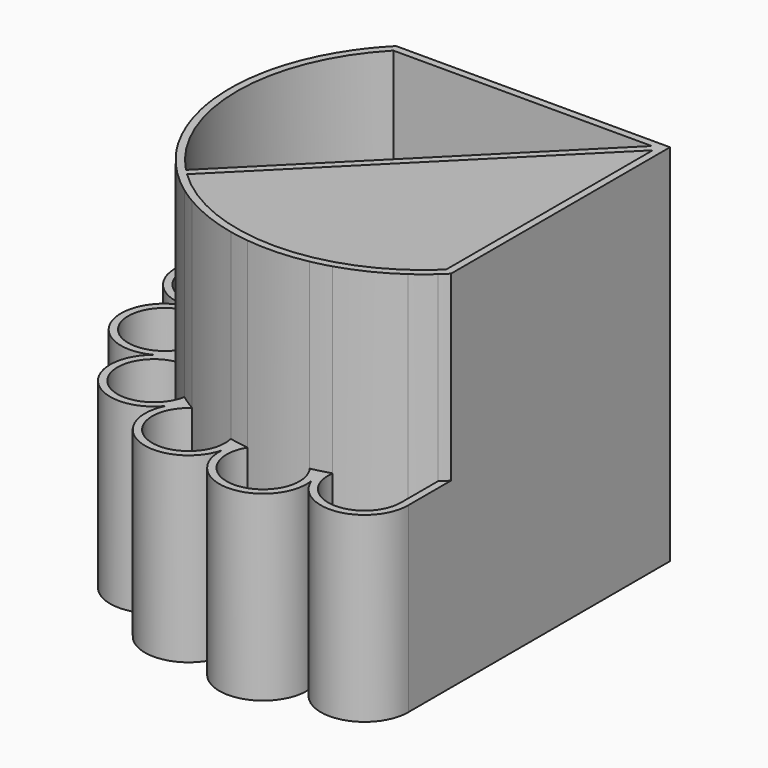
from build123d import *

# Parameters (mm, degrees)
F1_DEPTH = 100
F2_DEPTH = 50
F3_DEPTH = 2


with BuildPart() as f1:
    # F0 (on Top) → F1 (new body)
    with BuildSketch(Plane.XY):
        with BuildLine():
            Line((53.8232761587, 53.8232761587), (-21.3128918473, 53.8232761587))
            ThreePointArc((-21.3128918473, 53.8232761587), (-22.275260259, 52.8355982228), (-23.2116708013, 51.8232761587))
            ThreePointArc((-23.2116708013, 51.8232761587), (-25.3075965949, 49.3498512806), (-27.2487584756, 46.7531945623))
            ThreePointArc((-27.2487584756, 46.7531945623), (-31.4587379196, 39.6240335494), (-34.51000041, 31.9273679805))
            ThreePointArc((-34.51000041, 31.9273679805), (-35.2404615897, 29.3288112664), (-35.838001078, 26.6965086449))
            ThreePointArc((-35.838001078, 26.6965086449), (-36.82764793, 18.4764439995), (-36.5281956308, 10.2024369904))
            ThreePointArc((-36.5281956308, 10.2024369904), (-36.1526574521, 7.5294159266), (-35.6418430025, 4.8789180245))
            ThreePointArc((-35.6418430025, 4.8789180245), (-33.2442555313, -3.0457547122), (-29.644590404, -10.5017103611))
            ThreePointArc((-29.644590404, -10.5017103611), (-28.2263865418, -12.7983967429), (-26.6933658701, -15.0200893749))
            ThreePointArc((-26.6933658701, -15.0200893749), (-21.3128918473, -21.3128918473), (-15.0200893749, -26.6933658701))
            ThreePointArc((-15.0200893749, -26.6933658701), (-12.7983967429, -28.2263865418), (-10.5017103611, -29.644590404))
            ThreePointArc((-10.5017103611, -29.644590404), (-3.0457547122, -33.2442555313), (4.8789180245, -35.6418430025))
            ThreePointArc((4.8789180245, -35.6418430025), (7.5294159266, -36.1526574521), (10.2024369904, -36.5281956308))
            ThreePointArc((10.2024369904, -36.5281956308), (18.4764439995, -36.82764793), (26.6965086449, -35.838001078))
            ThreePointArc((26.6965086449, -35.838001078), (29.3288112664, -35.2404615897), (31.9273679804, -34.51000041))
            ThreePointArc((31.9273679804, -34.51000041), (39.6240335494, -31.4587379196), (46.7531945623, -27.2487584756))
            ThreePointArc((46.7531945623, -27.2487584756), (49.3498512806, -25.3075965949), (51.8232761587, -23.2116708013))
            ThreePointArc((51.8232761587, -23.2116708013), (52.8355982228, -22.275260259), (53.8232761587, -21.3128918473))
            Line((53.8232761587, -21.3128918473), (53.8232761587, 53.8232761587))
        make_face()
        with BuildLine():
            Line((50.4090625964, 51.8232761587), (51.8232761587, 51.8232761587))
            Line((51.8232761587, 51.8232761587), (51.8232761587, 50.4090625964))
            Line((51.8232761587, 50.4090625964), (51.8232761587, -20.4751236071))
            ThreePointArc((51.8232761587, -20.4751236071), (16.3442953184, -34.8740241135), (-19.1846559534, -20.5988695157))
            ThreePointArc((-19.1846559534, -20.5988695157), (-19.8986782849, -19.8986782849), (-20.5988695157, -19.1846559534))
            ThreePointArc((-20.5988695157, -19.1846559534), (-34.8740241135, 16.3442953184), (-20.4751236071, 51.8232761587))
            Line((-20.4751236071, 51.8232761587), (50.4090625964, 51.8232761587))
        make_face(mode=Mode.SUBTRACT)
        with BuildLine():
            Line((51.8232761587, 50.4090625964), (51.8232761587, 51.8232761587))
            Line((51.8232761587, 51.8232761587), (50.4090625964, 51.8232761587))
            Line((50.4090625964, 51.8232761587), (-20.5988695157, -19.1846559534))
            ThreePointArc((-20.5988695157, -19.1846559534), (-19.8986782849, -19.8986782849), (-19.1846559534, -20.5988695157))
            Line((-19.1846559534, -20.5988695157), (51.8232761587, 50.4090625964))
        make_face()
    extrude(amount=F1_DEPTH)

    # F0 (on Top) → F2 (join)
    with BuildSketch(Plane.XY):
        with BuildLine():
            ThreePointArc((-23.2116708013, 51.8232761587), (-22.275260259, 52.8355982228), (-21.3128918473, 53.8232761587))
            Line((-21.3128918473, 53.8232761587), (-35.94909781, 53.8232761587))
            ThreePointArc((-35.94909781, 53.8232761587), (-47.7636920228, 43.9245528153), (-40.0867196477, 30.55917009))
            ThreePointArc((-40.0867196477, 30.55917009), (-53.8127839078, 19.1871871426), (-41.0847622997, 6.7082327726))
            ThreePointArc((-41.0847622997, 6.7082327726), (-49.0827986166, -9.2215585412), (-32.4125497133, -15.53263117))
            ThreePointArc((-32.4125497133, -15.53263117), (-33.3337071275, -33.3337071275), (-15.53263117, -32.4125497133))
            ThreePointArc((-15.53263117, -32.4125497133), (-9.2215585412, -49.0827986166), (6.7082327726, -41.0847622997))
            ThreePointArc((6.7082327726, -41.0847622997), (19.1871871426, -53.8127839078), (30.55917009, -40.0867196477))
            ThreePointArc((30.55917009, -40.0867196477), (43.9245528153, -47.7636920228), (53.8232761587, -35.94909781))
            Line((53.8232761587, -35.94909781), (53.8232761587, -21.3128918473))
            ThreePointArc((53.8232761587, -21.3128918473), (52.8355982228, -22.275260259), (51.8232761587, -23.2116708013))
            Line((51.8232761587, -23.2116708013), (51.8232761587, -35.94909781))
            ThreePointArc((51.8232761587, -35.94909781), (41.1018476394, -45.9230409065), (31.9273679804, -34.51000041))
            ThreePointArc((31.9273679804, -34.51000041), (29.3288112664, -35.2404615897), (26.6965086449, -35.838001078))
            ThreePointArc((26.6965086449, -35.838001078), (19.1035703023, -51.8145326163), (10.2024369904, -36.5281956308))
            ThreePointArc((10.2024369904, -36.5281956308), (7.5294159266, -36.1526574521), (4.8789180245, -35.6418430025))
            ThreePointArc((4.8789180245, -35.6418430025), (-8.4949933848, -47.2194406066), (-10.5017103611, -29.644590404))
            ThreePointArc((-10.5017103611, -29.644590404), (-12.7983967429, -28.2263865418), (-15.0200893749, -26.6933658701))
            ThreePointArc((-15.0200893749, -26.6933658701), (-31.9194935651, -31.9194935651), (-26.6933658701, -15.0200893749))
            ThreePointArc((-26.6933658701, -15.0200893749), (-28.2263865418, -12.7983967429), (-29.644590404, -10.5017103611))
            ThreePointArc((-29.644590404, -10.5017103611), (-47.2194406066, -8.4949933848), (-35.6418430025, 4.8789180245))
            ThreePointArc((-35.6418430025, 4.8789180245), (-36.1526574521, 7.5294159266), (-36.5281956308, 10.2024369904))
            ThreePointArc((-36.5281956308, 10.2024369904), (-51.8145326163, 19.1035703023), (-35.838001078, 26.6965086449))
            ThreePointArc((-35.838001078, 26.6965086449), (-35.2404615897, 29.3288112664), (-34.51000041, 31.9273679805))
            ThreePointArc((-34.51000041, 31.9273679805), (-45.9230409065, 41.1018476394), (-35.94909781, 51.8232761587))
            Line((-35.94909781, 51.8232761587), (-23.2116708013, 51.8232761587))
        make_face()
        with BuildLine():
            ThreePointArc((-23.2116708013, 51.8232761587), (-22.275260259, 52.8355982228), (-21.3128918473, 53.8232761587))
            Line((-21.3128918473, 53.8232761587), (-35.94909781, 53.8232761587))
            ThreePointArc((-35.94909781, 53.8232761587), (-47.7636920228, 43.9245528153), (-40.0867196477, 30.55917009))
            ThreePointArc((-40.0867196477, 30.55917009), (-53.8127839078, 19.1871871426), (-41.0847622997, 6.7082327726))
            ThreePointArc((-41.0847622997, 6.7082327726), (-49.0827986166, -9.2215585412), (-32.4125497133, -15.53263117))
            ThreePointArc((-32.4125497133, -15.53263117), (-33.3337071275, -33.3337071275), (-15.53263117, -32.4125497133))
            ThreePointArc((-15.53263117, -32.4125497133), (-9.2215585412, -49.0827986166), (6.7082327726, -41.0847622997))
            ThreePointArc((6.7082327726, -41.0847622997), (19.1871871426, -53.8127839078), (30.55917009, -40.0867196477))
            ThreePointArc((30.55917009, -40.0867196477), (43.9245528153, -47.7636920228), (53.8232761587, -35.94909781))
            Line((53.8232761587, -35.94909781), (53.8232761587, -21.3128918473))
            ThreePointArc((53.8232761587, -21.3128918473), (52.8355982228, -22.275260259), (51.8232761587, -23.2116708013))
            Line((51.8232761587, -23.2116708013), (51.8232761587, -35.94909781))
            ThreePointArc((51.8232761587, -35.94909781), (41.1018476394, -45.9230409065), (31.9273679804, -34.51000041))
            ThreePointArc((31.9273679804, -34.51000041), (29.3288112664, -35.2404615897), (26.6965086449, -35.838001078))
            ThreePointArc((26.6965086449, -35.838001078), (19.1035703023, -51.8145326163), (10.2024369904, -36.5281956308))
            ThreePointArc((10.2024369904, -36.5281956308), (7.5294159266, -36.1526574521), (4.8789180245, -35.6418430025))
            ThreePointArc((4.8789180245, -35.6418430025), (-8.4949933848, -47.2194406066), (-10.5017103611, -29.644590404))
            ThreePointArc((-10.5017103611, -29.644590404), (-12.7983967429, -28.2263865418), (-15.0200893749, -26.6933658701))
            ThreePointArc((-15.0200893749, -26.6933658701), (-31.9194935651, -31.9194935651), (-26.6933658701, -15.0200893749))
            ThreePointArc((-26.6933658701, -15.0200893749), (-28.2263865418, -12.7983967429), (-29.644590404, -10.5017103611))
            ThreePointArc((-29.644590404, -10.5017103611), (-47.2194406066, -8.4949933848), (-35.6418430025, 4.8789180245))
            ThreePointArc((-35.6418430025, 4.8789180245), (-36.1526574521, 7.5294159266), (-36.5281956308, 10.2024369904))
            ThreePointArc((-36.5281956308, 10.2024369904), (-51.8145326163, 19.1035703023), (-35.838001078, 26.6965086449))
            ThreePointArc((-35.838001078, 26.6965086449), (-35.2404615897, 29.3288112664), (-34.51000041, 31.9273679805))
            ThreePointArc((-34.51000041, 31.9273679805), (-45.9230409065, 41.1018476394), (-35.94909781, 51.8232761587))
            Line((-35.94909781, 51.8232761587), (-23.2116708013, 51.8232761587))
        make_face()
        with BuildLine():
            ThreePointArc((-23.2116708013, 51.8232761587), (-22.275260259, 52.8355982228), (-21.3128918473, 53.8232761587))
            Line((-21.3128918473, 53.8232761587), (-35.94909781, 53.8232761587))
            ThreePointArc((-35.94909781, 53.8232761587), (-47.7636920228, 43.9245528153), (-40.0867196477, 30.55917009))
            ThreePointArc((-40.0867196477, 30.55917009), (-53.8127839078, 19.1871871426), (-41.0847622997, 6.7082327726))
            ThreePointArc((-41.0847622997, 6.7082327726), (-49.0827986166, -9.2215585412), (-32.4125497133, -15.53263117))
            ThreePointArc((-32.4125497133, -15.53263117), (-33.3337071275, -33.3337071275), (-15.53263117, -32.4125497133))
            ThreePointArc((-15.53263117, -32.4125497133), (-9.2215585412, -49.0827986166), (6.7082327726, -41.0847622997))
            ThreePointArc((6.7082327726, -41.0847622997), (19.1871871426, -53.8127839078), (30.55917009, -40.0867196477))
            ThreePointArc((30.55917009, -40.0867196477), (43.9245528153, -47.7636920228), (53.8232761587, -35.94909781))
            Line((53.8232761587, -35.94909781), (53.8232761587, -21.3128918473))
            ThreePointArc((53.8232761587, -21.3128918473), (52.8355982228, -22.275260259), (51.8232761587, -23.2116708013))
            Line((51.8232761587, -23.2116708013), (51.8232761587, -35.94909781))
            ThreePointArc((51.8232761587, -35.94909781), (41.1018476394, -45.9230409065), (31.9273679804, -34.51000041))
            ThreePointArc((31.9273679804, -34.51000041), (29.3288112664, -35.2404615897), (26.6965086449, -35.838001078))
            ThreePointArc((26.6965086449, -35.838001078), (19.1035703023, -51.8145326163), (10.2024369904, -36.5281956308))
            ThreePointArc((10.2024369904, -36.5281956308), (7.5294159266, -36.1526574521), (4.8789180245, -35.6418430025))
            ThreePointArc((4.8789180245, -35.6418430025), (-8.4949933848, -47.2194406066), (-10.5017103611, -29.644590404))
            ThreePointArc((-10.5017103611, -29.644590404), (-12.7983967429, -28.2263865418), (-15.0200893749, -26.6933658701))
            ThreePointArc((-15.0200893749, -26.6933658701), (-31.9194935651, -31.9194935651), (-26.6933658701, -15.0200893749))
            ThreePointArc((-26.6933658701, -15.0200893749), (-28.2263865418, -12.7983967429), (-29.644590404, -10.5017103611))
            ThreePointArc((-29.644590404, -10.5017103611), (-47.2194406066, -8.4949933848), (-35.6418430025, 4.8789180245))
            ThreePointArc((-35.6418430025, 4.8789180245), (-36.1526574521, 7.5294159266), (-36.5281956308, 10.2024369904))
            ThreePointArc((-36.5281956308, 10.2024369904), (-51.8145326163, 19.1035703023), (-35.838001078, 26.6965086449))
            ThreePointArc((-35.838001078, 26.6965086449), (-35.2404615897, 29.3288112664), (-34.51000041, 31.9273679805))
            ThreePointArc((-34.51000041, 31.9273679805), (-45.9230409065, 41.1018476394), (-35.94909781, 51.8232761587))
            Line((-35.94909781, 51.8232761587), (-23.2116708013, 51.8232761587))
        make_face()
    extrude(amount=F2_DEPTH)

    # F0 (on Top) → F3 (join)
    with BuildSketch(Plane.XY):
        with BuildLine():
            ThreePointArc((-29.644590404, -10.5017103611), (-33.2442555313, -3.0457547122), (-35.6418430025, 4.8789180245))
            ThreePointArc((-35.6418430025, 4.8789180245), (-47.2194406066, -8.4949933848), (-29.644590404, -10.5017103611))
        make_face()
        with BuildLine():
            ThreePointArc((-15.0200893749, -26.6933658701), (-21.3128918473, -21.3128918473), (-26.6933658701, -15.0200893749))
            ThreePointArc((-26.6933658701, -15.0200893749), (-31.9194935651, -31.9194935651), (-15.0200893749, -26.6933658701))
        make_face()
        with BuildLine():
            ThreePointArc((-10.5017103611, -29.644590404), (-8.4949933848, -47.2194406066), (4.8789180245, -35.6418430025))
            ThreePointArc((4.8789180245, -35.6418430025), (-3.0457547122, -33.2442555313), (-10.5017103611, -29.644590404))
        make_face()
        with BuildLine():
            ThreePointArc((10.2024369904, -36.5281956308), (19.1035703023, -51.8145326163), (26.6965086449, -35.838001078))
            ThreePointArc((26.6965086449, -35.838001078), (18.4764439995, -36.82764793), (10.2024369904, -36.5281956308))
        make_face()
        with BuildLine():
            ThreePointArc((51.8232761587, -35.94909781), (50.4632756968, -30.9141789445), (46.7531945623, -27.2487584756))
            ThreePointArc((46.7531945623, -27.2487584756), (39.6240335494, -31.4587379196), (31.9273679804, -34.51000041))
            ThreePointArc((31.9273679804, -34.51000041), (41.1018476394, -45.9230409065), (51.8232761587, -35.94909781))
        make_face()
        with BuildLine():
            Line((51.8232761587, 50.4090625964), (51.8232761587, 51.8232761587))
            Line((51.8232761587, 51.8232761587), (50.4090625964, 51.8232761587))
            Line((50.4090625964, 51.8232761587), (-20.5988695157, -19.1846559534))
            ThreePointArc((-20.5988695157, -19.1846559534), (-19.8986782849, -19.8986782849), (-19.1846559534, -20.5988695157))
            Line((-19.1846559534, -20.5988695157), (51.8232761587, 50.4090625964))
        make_face()
        with BuildLine():
            Line((-20.5988695157, -19.1846559534), (50.4090625964, 51.8232761587))
            Line((50.4090625964, 51.8232761587), (-20.4751236071, 51.8232761587))
            ThreePointArc((-20.4751236071, 51.8232761587), (-34.8740241135, 16.3442953184), (-20.5988695157, -19.1846559534))
        make_face()
        with BuildLine():
            ThreePointArc((-36.5281956308, 10.2024369904), (-36.82764793, 18.4764439995), (-35.838001078, 26.6965086449))
            ThreePointArc((-35.838001078, 26.6965086449), (-51.8145326163, 19.1035703023), (-36.5281956308, 10.2024369904))
        make_face()
        with BuildLine():
            ThreePointArc((-34.51000041, 31.9273679805), (-31.4587379196, 39.6240335494), (-27.2487584756, 46.7531945623))
            ThreePointArc((-27.2487584756, 46.7531945623), (-30.9141789445, 50.4632756968), (-35.94909781, 51.8232761587))
            ThreePointArc((-35.94909781, 51.8232761587), (-45.9230409065, 41.1018476394), (-34.51000041, 31.9273679805))
        make_face()
        with BuildLine():
            Line((51.8232761587, -35.94909781), (51.8232761587, -23.2116708013))
            ThreePointArc((51.8232761587, -23.2116708013), (49.3498512806, -25.3075965949), (46.7531945623, -27.2487584756))
            ThreePointArc((46.7531945623, -27.2487584756), (50.4632756968, -30.9141789445), (51.8232761587, -35.94909781))
        make_face()
        with BuildLine():
            ThreePointArc((-27.2487584756, 46.7531945623), (-25.3075965949, 49.3498512806), (-23.2116708013, 51.8232761587))
            Line((-23.2116708013, 51.8232761587), (-35.94909781, 51.8232761587))
            ThreePointArc((-35.94909781, 51.8232761587), (-30.9141789445, 50.4632756968), (-27.2487584756, 46.7531945623))
        make_face()
        with BuildLine():
            Line((51.8232761587, -20.4751236071), (51.8232761587, 50.4090625964))
            Line((51.8232761587, 50.4090625964), (-19.1846559534, -20.5988695157))
            ThreePointArc((-19.1846559534, -20.5988695157), (16.3442953184, -34.8740241135), (51.8232761587, -20.4751236071))
        make_face()
    extrude(amount=F3_DEPTH)


solid = f1.part
